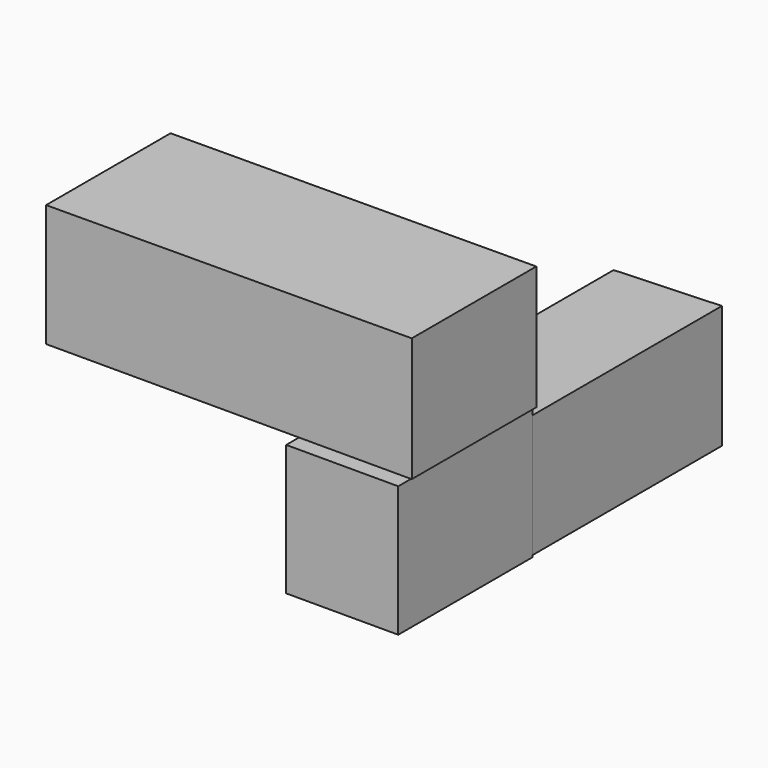
from build123d import *

# Parameters (mm, degrees)
F1_DEPTH = 25
F2_W     = 18.000001
F2_H     = 21.000001
F3_DEPTH = 27
F5_DEPTH = 38


with BuildPart() as f1:
    # F0 (on Front) → F1 (new body)
    with BuildSketch(Plane.XZ):
        Polygon((27.126904, 26.899949), (-31.622506, 26.636774), (-31.622506, 6.979949), (27.126904, 6.979949), align=None)
    extrude(amount=F1_DEPTH)


with BuildPart() as f3:
    # F2 (on Front) → F3 (new body)
    with BuildSketch(Plane.XZ):
        with Locations((17.55, -3.9)):
            Rectangle(F2_W, F2_H)
    extrude(amount=F3_DEPTH)

    # F4 (on Front) → F5 (join)
    with BuildSketch(Plane.XZ):
        Polygon((26.550001, 5.68), (9.15, 5.1), (9.15, -14.1), (26.550001, -14.1), align=None)
    extrude(amount=-F5_DEPTH)


solid = Compound([f1.part, f3.part])
